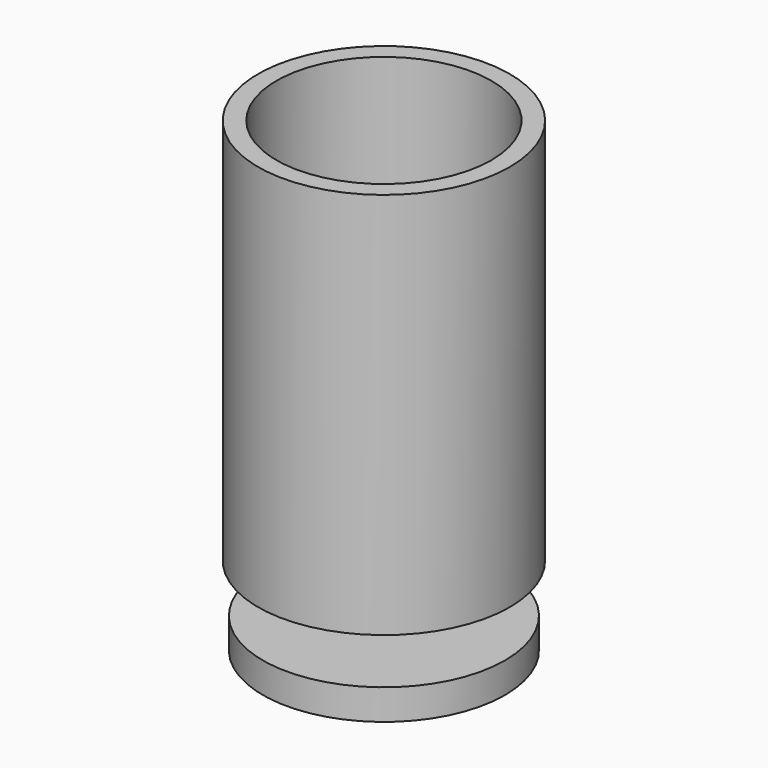
from build123d import *


with BuildPart() as f1:
    # F0 (on Front) → F1 (revolve)
    with BuildSketch(Plane.XZ):
        Polygon((0, 8), (0, 0), (31.75, 0), (31.75, 8), (7.607925, 8), (4.185817, 8), align=None)
        Polygon((4.185817, 29.234255), (4.185817, 8), (7.607925, 8), (7.607925, 20.7), (33.007925, 20.7), (33.007925, 122.3), (28.189454, 122.3), (28.189454, 29.234255), align=None)
    revolve(axis=Axis((0, 0, 4), (0, 0, 1)))


solid = f1.part
